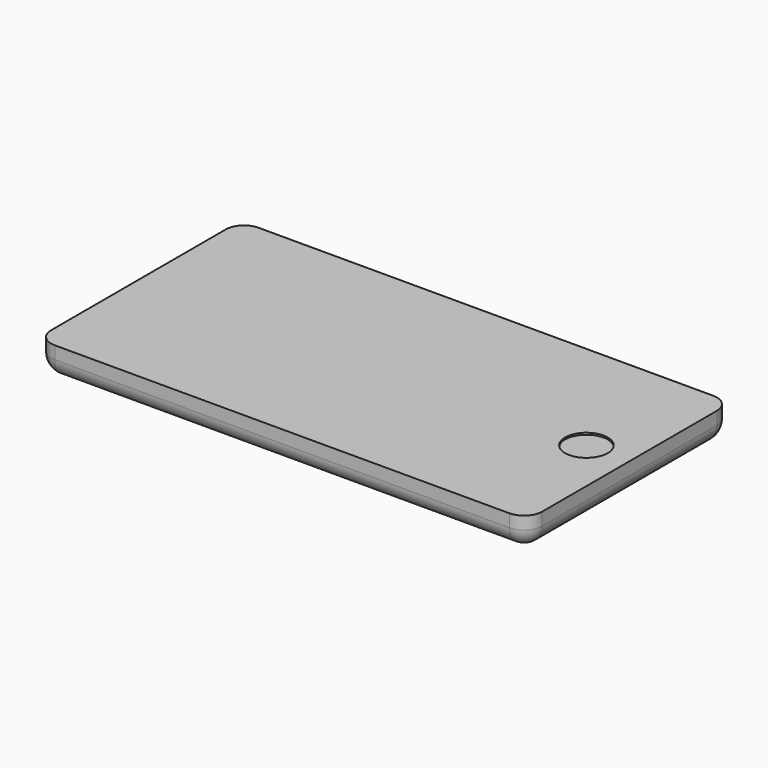
from build123d import *

# Parameters (mm, degrees)
F0_W     = 135
F0_H     = 70
F1_DEPTH = 8.5
F2_R     = 5
F3_R     = 5
F4_R     = 5.85347
F5_DEPTH = 0.5


with BuildPart() as f1:
    # F0 (on Top) → F1 (new body)
    with BuildSketch(Plane.XY):
        with Locations((0.209052, 22.374493)):
            Rectangle(F0_W, F0_H)
    extrude(amount=F1_DEPTH)

    # F2
    f2_edges = [f1.edges().sort_by_distance(p)[0] for p in [
        (67.709052, -12.625507, 4.25),
        (67.709052, 57.374493, 4.25),
        (-67.290948, -12.625507, 4.25),
        (-67.290948, 57.374493, 4.25),
    ]]
    fillet(f2_edges, radius=F2_R)

    # F3
    f3_edges = [f1.edges().sort_by_distance(p)[0] for p in [
        (-67.290948, 22.374493, 0),
    ]]
    fillet(f3_edges, radius=F3_R)

    # F4 (on face) → F5 (cut)
    with BuildSketch(Plane.XY.offset(8.5)):
        with Locations((55.848766, 22.374493)):
            Circle(F4_R)
    extrude(amount=-F5_DEPTH, mode=Mode.SUBTRACT)


solid = f1.part
